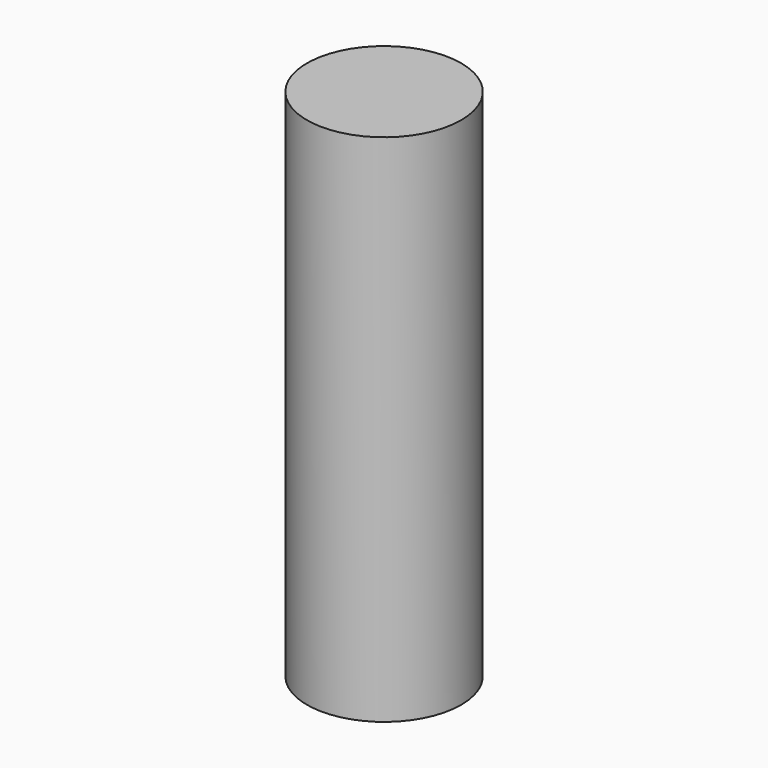
from build123d import *

# Parameters (mm, degrees)
CYLINDER_R     = 2.2479
CYLINDER_DEPTH = 15


with BuildPart() as part:
    # Cylinder → Cylinder (new body)
    with BuildSketch(Plane.XY.offset(-2.5)):
        Circle(CYLINDER_R)
    extrude(amount=CYLINDER_DEPTH)


solid = part.part
